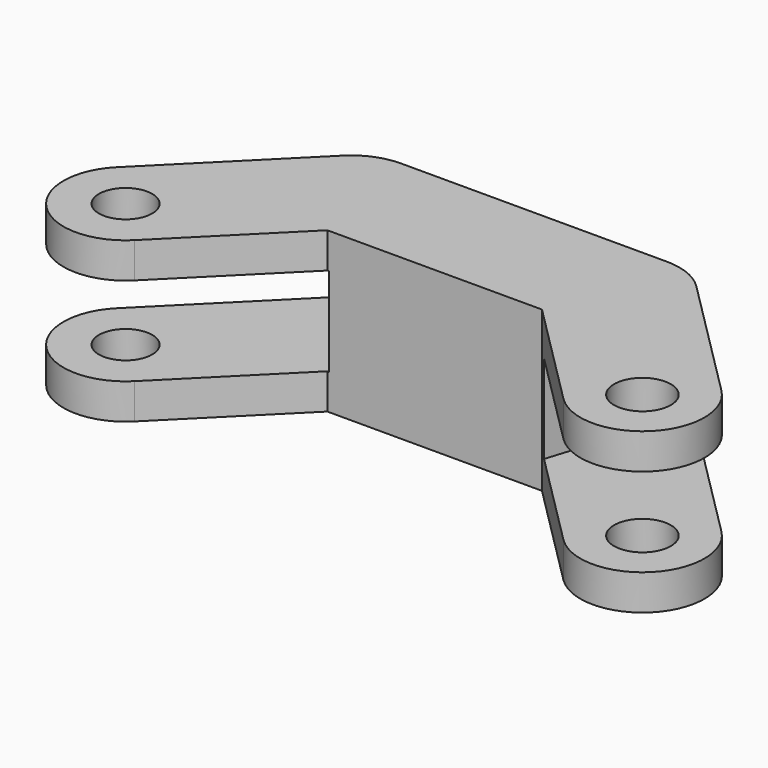
from build123d import *

# Parameters (mm, degrees)
SKETCH003_R       = 1.5
SKETCH003_R_2     = 1.6
PAD003_DEPTH      = 2
PAD003_DEPTH_BACK = 7
POCKET001_DEPTH   = 5
POCKET002_DEPTH   = 5


with BuildPart() as part:
    # Sketch003 → Pad003 (new body, two sides)
    with BuildSketch(Plane.XY) as pad003_sk:
        with BuildLine():
            ThreePointArc((-2.474873, 2.474874), (-2.474874, -2.474873), (2.474873, -2.474874))
            Line((2.474873, -2.474874), (8.520816, 3.571067))
            Line((20.621322, 3.571067), (8.520816, 3.571067))
            Line((26.667265, -2.474874), (20.621322, 3.571067))
            ThreePointArc((26.667265, -2.474874), (31.617012, -2.474873), (31.617011, 2.474874))
            Line((31.617011, 2.474874), (24.545942, 9.545941))
            ThreePointArc((24.545942, 9.545941), (23.410461, 10.304645), (22.071069, 10.571067))
            Line((22.071069, 10.571067), (7.071069, 10.571067))
            ThreePointArc((7.071069, 10.571067), (5.731677, 10.304645), (4.596196, 9.545941))
            Line((4.596196, 9.545941), (-2.474873, 2.474874))
        make_face()
        Circle(SKETCH003_R, mode=Mode.SUBTRACT)
        with Locations((29.142138, 0)):
            Circle(SKETCH003_R_2, mode=Mode.SUBTRACT)
    extrude(amount=-PAD003_DEPTH)
    extrude(pad003_sk.sketch, amount=PAD003_DEPTH_BACK)

    # Sketch006 → Pocket001 (cut)
    with BuildSketch(Plane.XY):
        with BuildLine():
            ThreePointArc((-2.651389, 2.284762), (-2.54902, -2.398437), (2.119285, -2.785432))
            Line((9.024723, 2.468542), (2.119285, -2.785432))
            Line((9.024723, 2.468542), (5.604523, 11.865468))
            Line((5.604523, 11.865468), (-2.651389, 2.284762))
        make_face()
    extrude(amount=POCKET001_DEPTH, mode=Mode.SUBTRACT)

    # Sketch008 → Pocket002 (cut)
    with BuildSketch(Plane(origin=(30, -0.7, 0), x_dir=(1, 0, 0), z_dir=(0, 0, 1))):
        with BuildLine():
            ThreePointArc((-2.085176, -2.811057), (2.596289, -2.347187), (2.587206, 2.357194))
            Line((-6.202528, 12.004617), (2.587206, 2.357194))
            Line((-9.195041, 2.462874), (-6.202528, 12.004617))
            Line((-9.195041, 2.462874), (-2.085176, -2.811057))
        make_face()
    extrude(amount=POCKET002_DEPTH, mode=Mode.SUBTRACT)


with BuildPart() as part_1:
    # Body001 placement: moved
    add(part.part.moved(Location((-30.2, 22, 0))))


solid = part_1.part
